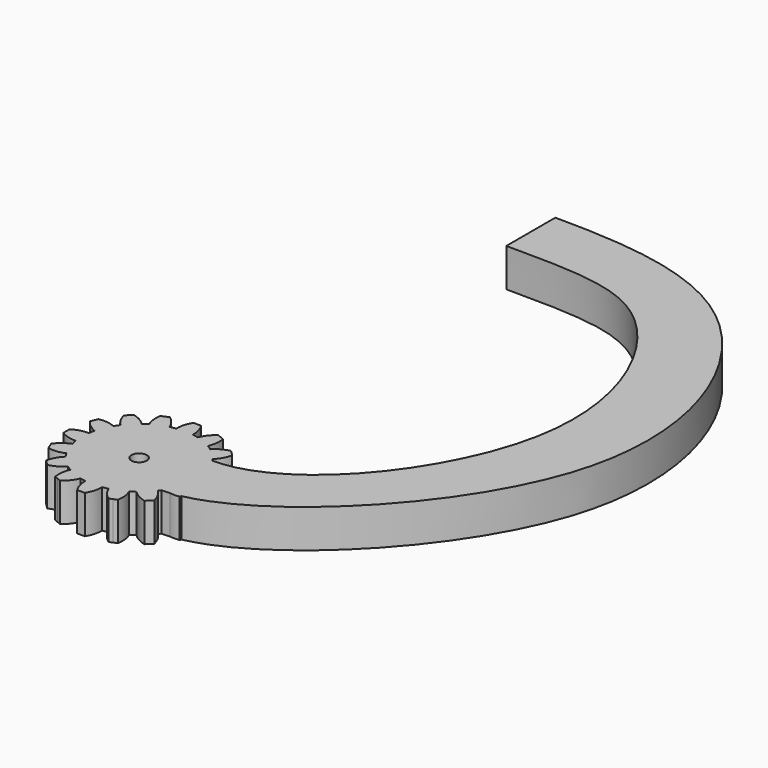
from build123d import *

# Parameters (mm, degrees)
F1_DEPTH = 5
F2_R     = 1
F3_DEPTH = 5.001
F5_DEPTH = 5


with BuildPart() as f1:
    # F0 (on Top) → F1 (new body)
    with BuildSketch(Plane.XY):
        with BuildLine():
            ThreePointArc((7.4206173165, -1.0883191822), (7.4801280027, -0.5456052265), (7.5, 0))
            ThreePointArc((7.5, 0), (7.4801280027, 0.5456052265), (7.4206173165, 1.0883191822))
            ThreePointArc((7.4206173165, 1.0883191822), (7.355889603, 1.4631774151), (7.2722381774, 1.8342714877))
            ThreePointArc((7.2722381774, 1.8342714877), (6.9290964938, 2.8701257427), (6.4392747372, 3.8452231222))
            ThreePointArc((6.4392747372, 3.8452231222), (6.2360220923, 4.1667767476), (6.0167266989, 4.4776109513))
            ThreePointArc((6.0167266989, 4.4776109513), (5.3033008589, 5.3033008589), (4.4776109513, 6.0167266989))
            ThreePointArc((4.4776109513, 6.0167266989), (4.1667767476, 6.2360220923), (3.8452231222, 6.4392747372))
            ThreePointArc((3.8452231222, 6.4392747372), (2.8701257427, 6.9290964938), (1.8342714877, 7.2722381774))
            ThreePointArc((1.8342714877, 7.2722381774), (1.4631774151, 7.355889603), (1.0883191822, 7.4206173165))
            ThreePointArc((1.0883191822, 7.4206173165), (0.5456052265, 7.4801280027), (0, 7.5))
            ThreePointArc((0, 7.5), (-0.5456052265, 7.4801280027), (-1.0883191822, 7.4206173165))
            ThreePointArc((-1.0883191822, 7.4206173165), (-1.4631774151, 7.355889603), (-1.8342714877, 7.2722381774))
            ThreePointArc((-1.8342714877, 7.2722381774), (-2.8701257427, 6.9290964938), (-3.8452231222, 6.4392747372))
            ThreePointArc((-3.8452231222, 6.4392747372), (-4.1667767476, 6.2360220923), (-4.4776109513, 6.0167266989))
            ThreePointArc((-4.4776109513, 6.0167266989), (-5.3033008589, 5.3033008589), (-6.0167266989, 4.4776109513))
            ThreePointArc((-6.0167266989, 4.4776109513), (-6.2360220923, 4.1667767476), (-6.4392747372, 3.8452231222))
            ThreePointArc((-6.4392747372, 3.8452231222), (-6.9290964938, 2.8701257427), (-7.2722381774, 1.8342714877))
            ThreePointArc((-7.2722381774, 1.8342714877), (-7.355889603, 1.4631774151), (-7.4206173165, 1.0883191822))
            ThreePointArc((-7.4206173165, 1.0883191822), (-7.5, 0), (-7.4206173165, -1.0883191822))
            ThreePointArc((-7.4206173165, -1.0883191822), (-7.355889603, -1.4631774151), (-7.2722381774, -1.8342714877))
            ThreePointArc((-7.2722381774, -1.8342714877), (-6.9290964938, -2.8701257427), (-6.4392747372, -3.8452231222))
            ThreePointArc((-6.4392747372, -3.8452231222), (-6.2360220923, -4.1667767476), (-6.0167266989, -4.4776109513))
            ThreePointArc((-6.0167266989, -4.4776109513), (-5.3033008589, -5.3033008589), (-4.4776109513, -6.0167266989))
            ThreePointArc((-4.4776109513, -6.0167266989), (-4.1667767476, -6.2360220923), (-3.8452231222, -6.4392747372))
            ThreePointArc((-3.8452231222, -6.4392747372), (-2.8701257427, -6.9290964938), (-1.8342714877, -7.2722381774))
            ThreePointArc((-1.8342714877, -7.2722381774), (-1.4631774151, -7.355889603), (-1.0883191822, -7.4206173165))
            ThreePointArc((-1.0883191822, -7.4206173165), (0, -7.5), (1.0883191822, -7.4206173165))
            ThreePointArc((1.0883191822, -7.4206173165), (1.4631774151, -7.355889603), (1.8342714877, -7.2722381774))
            ThreePointArc((1.8342714877, -7.2722381774), (2.8701257427, -6.9290964938), (3.8452231222, -6.4392747372))
            ThreePointArc((3.8452231222, -6.4392747372), (4.1667767476, -6.2360220923), (4.4776109513, -6.0167266989))
            ThreePointArc((4.4776109513, -6.0167266989), (5.3033008589, -5.3033008589), (6.0167266989, -4.4776109513))
            ThreePointArc((6.0167266989, -4.4776109513), (6.2360220923, -4.1667767476), (6.4392747372, -3.8452231222))
            ThreePointArc((6.4392747372, -3.8452231222), (6.9290964938, -2.8701257427), (7.2722381774, -1.8342714877))
            ThreePointArc((7.2722381774, -1.8342714877), (7.355889603, -1.4631774151), (7.4206173165, -1.0883191822))
        make_face()
        with BuildLine():
            ThreePointArc((7.4206173165, 1.0883191822), (7.4801280027, 0.5456052265), (7.5, 0))
            ThreePointArc((7.5, 0), (7.4801280027, -0.5456052265), (7.4206173165, -1.0883191822))
            ThreePointArc((7.4206173165, -1.0883191822), (8.5043518229, -0.9498278009), (9.5, -0.5))
            Line((9.5, -0.5), (9.5, 0))
            Line((9.5, 0), (9.5, 0.5))
            ThreePointArc((9.5, 0.5), (8.5043518229, 0.9498278009), (7.4206173165, 1.0883191822))
        make_face()
        with BuildLine():
            ThreePointArc((6.4392747372, 3.8452231222), (6.9290964938, 2.8701257427), (7.2722381774, 1.8342714877))
            ThreePointArc((7.2722381774, 1.8342714877), (8.2204799494, 2.376948081), (8.968197275, 3.1735528412))
            Line((8.968197275, 3.1735528412), (8.7768555589, 3.6354926075))
            Line((8.7768555589, 3.6354926075), (8.5855138427, 4.0974323737))
            ThreePointArc((8.5855138427, 4.0974323737), (7.4935132234, 4.1320010103), (6.4392747372, 3.8452231222))
        make_face()
        with BuildLine():
            ThreePointArc((8.968197275, -3.1735528412), (8.2204799494, -2.376948081), (7.2722381774, -1.8342714877))
            ThreePointArc((7.2722381774, -1.8342714877), (6.9290964938, -2.8701257427), (6.4392747372, -3.8452231222))
            ThreePointArc((6.4392747372, -3.8452231222), (7.4935132234, -4.1320010103), (8.5855138427, -4.0974323737))
            Line((8.5855138427, -4.0974323737), (8.7768555589, -3.6354926075))
            Line((8.7768555589, -3.6354926075), (8.968197275, -3.1735528412))
        make_face()
        with BuildLine():
            ThreePointArc((4.4776109513, 6.0167266989), (5.3033008589, 5.3033008589), (6.0167266989, 4.4776109513))
            ThreePointArc((6.0167266989, 4.4776109513), (6.6851145225, 5.3418551646), (7.0710678119, 6.3639610307))
            Line((7.0710678119, 6.3639610307), (6.7175144213, 6.7175144213))
            Line((6.7175144213, 6.7175144213), (6.3639610307, 7.0710678119))
            ThreePointArc((6.3639610307, 7.0710678119), (5.3418551646, 6.6851145225), (4.4776109513, 6.0167266989))
        make_face()
        with BuildLine():
            ThreePointArc((7.0710678119, -6.3639610307), (6.6851145225, -5.3418551646), (6.0167266989, -4.4776109513))
            ThreePointArc((6.0167266989, -4.4776109513), (5.3033008589, -5.3033008589), (4.4776109513, -6.0167266989))
            ThreePointArc((4.4776109513, -6.0167266989), (5.3418551646, -6.6851145225), (6.3639610307, -7.0710678119))
            Line((6.3639610307, -7.0710678119), (6.7175144213, -6.7175144213))
            Line((6.7175144213, -6.7175144213), (7.0710678119, -6.3639610307))
        make_face()
        with BuildLine():
            ThreePointArc((1.8342714877, 7.2722381774), (2.8701257427, 6.9290964938), (3.8452231222, 6.4392747372))
            ThreePointArc((3.8452231222, 6.4392747372), (4.1320010103, 7.4935132234), (4.0974323737, 8.5855138427))
            Line((4.0974323737, 8.5855138427), (3.6354926075, 8.7768555589))
            Line((3.6354926075, 8.7768555589), (3.1735528412, 8.968197275))
            ThreePointArc((3.1735528412, 8.968197275), (2.376948081, 8.2204799494), (1.8342714877, 7.2722381774))
        make_face()
        with BuildLine():
            ThreePointArc((4.0974323737, -8.5855138427), (4.1320010103, -7.4935132234), (3.8452231222, -6.4392747372))
            ThreePointArc((3.8452231222, -6.4392747372), (2.8701257427, -6.9290964938), (1.8342714877, -7.2722381774))
            ThreePointArc((1.8342714877, -7.2722381774), (2.376948081, -8.2204799494), (3.1735528412, -8.968197275))
            Line((3.1735528412, -8.968197275), (3.6354926075, -8.7768555589))
            Line((3.6354926075, -8.7768555589), (4.0974323737, -8.5855138427))
        make_face()
        with BuildLine():
            ThreePointArc((0, 7.5), (0.5456052265, 7.4801280027), (1.0883191822, 7.4206173165))
            ThreePointArc((1.0883191822, 7.4206173165), (0.9498278009, 8.5043518229), (0.5, 9.5))
            Line((0.5, 9.5), (0, 9.5))
            Line((0, 9.5), (0, 7.5))
        make_face()
        with BuildLine():
            ThreePointArc((0.5, -9.5), (0.9498278009, -8.5043518229), (1.0883191822, -7.4206173165))
            ThreePointArc((1.0883191822, -7.4206173165), (0, -7.5), (-1.0883191822, -7.4206173165))
            ThreePointArc((-1.0883191822, -7.4206173165), (-0.9498278009, -8.5043518229), (-0.5, -9.5))
            Line((-0.5, -9.5), (0, -9.5))
            Line((0, -9.5), (0.5, -9.5))
        make_face()
        with BuildLine():
            ThreePointArc((-1.0883191822, 7.4206173165), (-0.5456052265, 7.4801280027), (0, 7.5))
            Line((0, 7.5), (0, 9.5))
            Line((0, 9.5), (-0.5, 9.5))
            ThreePointArc((-0.5, 9.5), (-0.9498278009, 8.5043518229), (-1.0883191822, 7.4206173165))
        make_face()
        with BuildLine():
            ThreePointArc((-3.1735528412, -8.968197275), (-2.376948081, -8.2204799494), (-1.8342714877, -7.2722381774))
            ThreePointArc((-1.8342714877, -7.2722381774), (-2.8701257427, -6.9290964938), (-3.8452231222, -6.4392747372))
            ThreePointArc((-3.8452231222, -6.4392747372), (-4.1320010103, -7.4935132234), (-4.0974323737, -8.5855138427))
            Line((-4.0974323737, -8.5855138427), (-3.6354926075, -8.7768555589))
            Line((-3.6354926075, -8.7768555589), (-3.1735528412, -8.968197275))
        make_face()
        with BuildLine():
            ThreePointArc((-3.8452231222, 6.4392747372), (-2.8701257427, 6.9290964938), (-1.8342714877, 7.2722381774))
            ThreePointArc((-1.8342714877, 7.2722381774), (-2.376948081, 8.2204799494), (-3.1735528412, 8.968197275))
            Line((-3.1735528412, 8.968197275), (-3.6354926075, 8.7768555589))
            Line((-3.6354926075, 8.7768555589), (-4.0974323737, 8.5855138427))
            ThreePointArc((-4.0974323737, 8.5855138427), (-4.1320010103, 7.4935132234), (-3.8452231222, 6.4392747372))
        make_face()
        with BuildLine():
            ThreePointArc((-6.3639610307, -7.0710678119), (-5.3418551646, -6.6851145225), (-4.4776109513, -6.0167266989))
            ThreePointArc((-4.4776109513, -6.0167266989), (-5.3033008589, -5.3033008589), (-6.0167266989, -4.4776109513))
            ThreePointArc((-6.0167266989, -4.4776109513), (-6.6851145225, -5.3418551646), (-7.0710678119, -6.3639610307))
            Line((-7.0710678119, -6.3639610307), (-6.7175144213, -6.7175144213))
            Line((-6.7175144213, -6.7175144213), (-6.3639610307, -7.0710678119))
        make_face()
        with BuildLine():
            ThreePointArc((-6.0167266989, 4.4776109513), (-5.3033008589, 5.3033008589), (-4.4776109513, 6.0167266989))
            ThreePointArc((-4.4776109513, 6.0167266989), (-5.3418551646, 6.6851145225), (-6.3639610307, 7.0710678119))
            Line((-6.3639610307, 7.0710678119), (-6.7175144213, 6.7175144213))
            Line((-6.7175144213, 6.7175144213), (-7.0710678119, 6.3639610307))
            ThreePointArc((-7.0710678119, 6.3639610307), (-6.6851145225, 5.3418551646), (-6.0167266989, 4.4776109513))
        make_face()
        with BuildLine():
            ThreePointArc((-8.5855138427, -4.0974323737), (-7.4935132234, -4.1320010103), (-6.4392747372, -3.8452231222))
            ThreePointArc((-6.4392747372, -3.8452231222), (-6.9290964938, -2.8701257427), (-7.2722381774, -1.8342714877))
            ThreePointArc((-7.2722381774, -1.8342714877), (-8.2204799494, -2.376948081), (-8.968197275, -3.1735528412))
            Line((-8.968197275, -3.1735528412), (-8.7768555589, -3.6354926075))
            Line((-8.7768555589, -3.6354926075), (-8.5855138427, -4.0974323737))
        make_face()
        with BuildLine():
            ThreePointArc((-7.2722381774, 1.8342714877), (-6.9290964938, 2.8701257427), (-6.4392747372, 3.8452231222))
            ThreePointArc((-6.4392747372, 3.8452231222), (-7.4935132234, 4.1320010103), (-8.5855138427, 4.0974323737))
            Line((-8.5855138427, 4.0974323737), (-8.7768555589, 3.6354926075))
            Line((-8.7768555589, 3.6354926075), (-8.968197275, 3.1735528412))
            ThreePointArc((-8.968197275, 3.1735528412), (-8.2204799494, 2.376948081), (-7.2722381774, 1.8342714877))
        make_face()
        with BuildLine():
            ThreePointArc((-9.5, -0.5), (-8.5043518229, -0.9498278009), (-7.4206173165, -1.0883191822))
            ThreePointArc((-7.4206173165, -1.0883191822), (-7.5, 0), (-7.4206173165, 1.0883191822))
            ThreePointArc((-7.4206173165, 1.0883191822), (-8.5043518229, 0.9498278009), (-9.5, 0.5))
            Line((-9.5, 0.5), (-9.5, 0))
            Line((-9.5, 0), (-9.5, -0.5))
        make_face()
    extrude(amount=F1_DEPTH)

    # F2 (on face) → F3 (cut, through all)
    with BuildSketch(Plane.XY.offset(5)):
        Circle(F2_R)
    extrude(amount=-F3_DEPTH, mode=Mode.SUBTRACT)

    # F4 (on Top) → F5 (join, through all)
    with BuildSketch(Plane.XY):
        with BuildLine():
            add(Edge.make_bspline(
                [(0, 68), (10, 68), (30.1655239133, 66.078145558), (47.1097466115, 24.8336379116), (16.2360220923, -4.1667767476), (6.2360220923, -4.1667767476)],
                knots=[0, 0, 0, 0, 0.2947825221, 0.6324594703, 1, 1, 1, 1], degree=3))
            Line((0, 68), (0, 60))
            add(Edge.make_bspline(
                [(0, 60), (10, 60), (21.529090744, 59.5696569591), (36.221671874, 29.2994392061), (16.2360220923, 4.1667767476), (6.2360220923, 4.1667767476)],
                knots=[0, 0, 0, 0, 0.291357855, 0.6261182487, 1, 1, 1, 1], degree=3))
            Line((6.2360220923, 4.1667767476), (6.2360220923, -4.1667767476))
        make_face()
    extrude(amount=F5_DEPTH)


solid = f1.part
